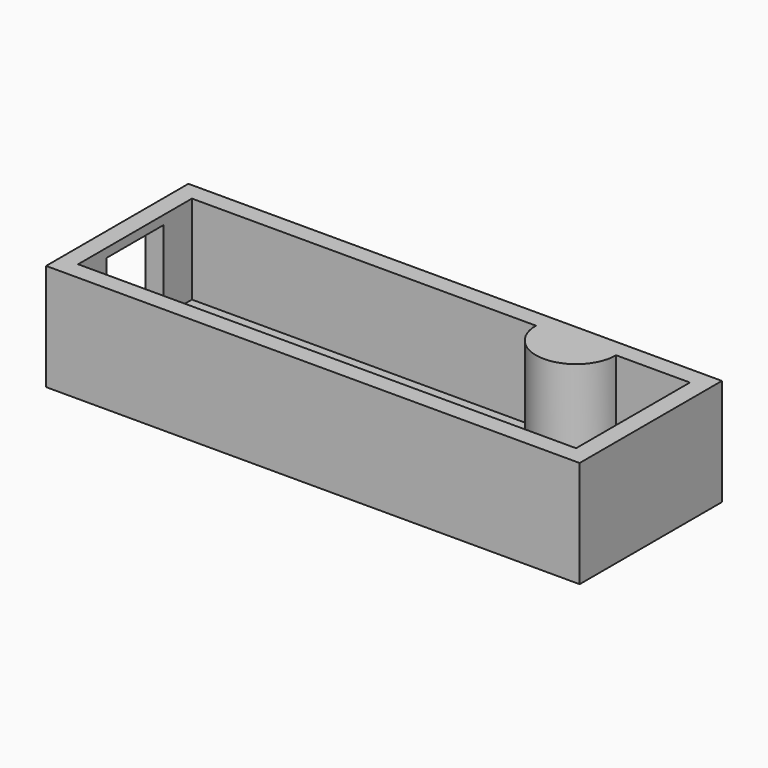
from build123d import *

# Parameters (mm, degrees)
F0_W     = 19.05
F0_H     = 6.35
F1_DEPTH = 3.81
F2_T     = -0.635
F4_DEPTH = 3.175
F5_W     = 1.27
F5_H     = 1.27
F6_DEPTH = 0.635


with BuildPart() as f1:
    # F0 (on Top) → F1 (new body)
    with BuildSketch(Plane.XY):
        with Locations((19.5798018083, 32.579488121)):
            Rectangle(F0_W, F0_H)
    extrude(amount=F1_DEPTH)

    # F2
    f2_openings = [f1.faces().sort_by_distance(p)[0] for p in [
        (19.579802, 32.579488, 3.81),
    ]]
    offset(amount=F2_T, openings=f2_openings)

    # F3 (on face) → F4 (join)
    with BuildSketch(Plane.XY.offset(0.635)):
        with BuildLine():
            ThreePointArc((22.9725916315, 35.119488121), (24.4037620723, 33.6883176802), (25.8349325131, 35.119488121))
            Line((25.8349325131, 35.119488121), (22.9725916315, 35.119488121))
        make_face()
    extrude(amount=F4_DEPTH)

    # F5 (on face) → F6 (cut)
    with BuildSketch(Plane(origin=(10.0548018083, 0, 0), x_dir=(0, -1, 0), z_dir=(-1, 0, 0))):
        with Locations((-33.214488121, 2.8575)):
            Rectangle(F5_W, F5_H)
        with Locations((-31.944488121, 2.8575)):
            Rectangle(F5_W, F5_H)
        with Locations((-31.944488121, 1.5875)):
            Rectangle(F5_W, F5_H)
        with Locations((-33.214488121, 1.5875)):
            Rectangle(F5_W, F5_H)
    extrude(amount=-F6_DEPTH, mode=Mode.SUBTRACT)


solid = f1.part
